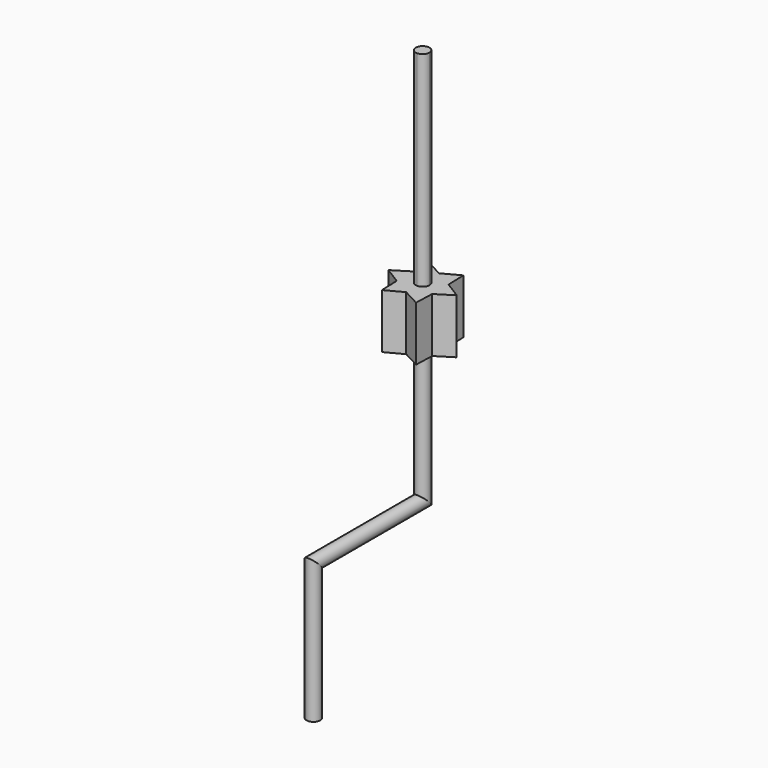
from build123d import *

# Parameters (mm, degrees)
F0_R     = 0.635
F4_DEPTH = 5.08
F6_DEPTH = 19.05


with BuildPart() as f2:
    # F2: sweep along a path in F1
    with BuildLine(Plane.YZ) as f2_path:
        Line((0, 0), (0, 12.7))
        Line((0, 12.7), (12.7, 12.7))
        Line((12.7, 12.7), (12.7, 25.4))
    # F0 (on Top) → F2 (sweep)
    with BuildSketch(Plane.XY):
        Circle(F0_R)
    sweep(path=f2_path.line, transition=Transition.RIGHT)

    # F3 (on face) → F4 (join)
    with BuildSketch(Plane.XY.offset(25.4)):
        with BuildLine():
            ThreePointArc((-0.9525, 14.3497783942), (-1.3470384182, 14.0470384182), (-1.6497783942, 13.6525))
            Line((-1.6497783942, 13.6525), (-0.5499261314, 13.0175))
            ThreePointArc((-0.5499261314, 13.0175), (-0.4490128061, 13.1490128061), (-0.3175, 13.2499261314))
            Line((-0.3175, 13.2499261314), (-0.9525, 14.3497783942))
        make_face()
        with BuildLine():
            ThreePointArc((-0.3175, 13.2499261314), (-0.1643500936, 13.3133628997), (0, 13.335))
            Line((0, 13.335), (0, 14.605))
            ThreePointArc((0, 14.605), (-0.4930502809, 14.5400886991), (-0.9525, 14.3497783942))
            Line((-0.9525, 14.3497783942), (-0.3175, 13.2499261314))
        make_face()
        with BuildLine():
            Line((0, 14.605), (-1.5875, 15.449630657))
            Line((-1.5875, 15.449630657), (-0.9525, 14.3497783942))
            ThreePointArc((-0.9525, 14.3497783942), (-0.4930502809, 14.5400886991), (0, 14.605))
        make_face()
        with BuildLine():
            Line((-0.9525, 14.3497783942), (-1.5875, 15.449630657))
            Line((-1.5875, 15.449630657), (-1.6497783942, 13.6525))
            ThreePointArc((-1.6497783942, 13.6525), (-1.3470384182, 14.0470384182), (-0.9525, 14.3497783942))
        make_face()
        with BuildLine():
            Line((-0.3175, 13.2499261314), (0, 12.7))
            Line((0, 12.7), (0, 13.335))
            ThreePointArc((0, 13.335), (-0.1643500936, 13.3133628997), (-0.3175, 13.2499261314))
        make_face()
        with BuildLine():
            Line((-0.5499261314, 12.3825), (0, 12.7))
            Line((0, 12.7), (-0.635, 12.7))
            ThreePointArc((-0.635, 12.7), (-0.6133628997, 12.5356499064), (-0.5499261314, 12.3825))
        make_face()
        with BuildLine():
            Line((-0.635, 12.7), (0, 12.7))
            Line((0, 12.7), (-0.5499261314, 13.0175))
            ThreePointArc((-0.5499261314, 13.0175), (-0.6133628997, 12.8643500936), (-0.635, 12.7))
        make_face()
        with BuildLine():
            Line((-0.5499261314, 13.0175), (0, 12.7))
            Line((0, 12.7), (-0.3175, 13.2499261314))
            ThreePointArc((-0.3175, 13.2499261314), (-0.4490128061, 13.1490128061), (-0.5499261314, 13.0175))
        make_face()
        with BuildLine():
            Line((-0.3175, 12.1500738686), (0, 12.7))
            Line((0, 12.7), (-0.5499261314, 12.3825))
            ThreePointArc((-0.5499261314, 12.3825), (-0.4490128061, 12.2509871939), (-0.3175, 12.1500738686))
        make_face()
        with BuildLine():
            Line((0, 12.7), (0, 12.065))
            ThreePointArc((0, 12.065), (0.1643500936, 12.0866371003), (0.3175, 12.1500738686))
            Line((0.3175, 12.1500738686), (0, 12.7))
        make_face()
        with BuildLine():
            Line((0.5499261314, 12.3825), (0, 12.7))
            Line((0, 12.7), (0.3175, 12.1500738686))
            ThreePointArc((0.3175, 12.1500738686), (0.4490128061, 12.2509871939), (0.5499261314, 12.3825))
        make_face()
        with BuildLine():
            Line((0.635, 12.7), (0, 12.7))
            Line((0, 12.7), (0.5499261314, 12.3825))
            ThreePointArc((0.5499261314, 12.3825), (0.6133628997, 12.5356499064), (0.635, 12.7))
        make_face()
        with BuildLine():
            Line((0.5499261314, 13.0175), (0, 12.7))
            Line((0, 12.7), (0.635, 12.7))
            ThreePointArc((0.635, 12.7), (0.6133628997, 12.8643500936), (0.5499261314, 13.0175))
        make_face()
        with BuildLine():
            Line((0.3175, 13.2499261314), (0, 12.7))
            Line((0, 12.7), (0.5499261314, 13.0175))
            ThreePointArc((0.5499261314, 13.0175), (0.4490128061, 13.1490128061), (0.3175, 13.2499261314))
        make_face()
        with BuildLine():
            Line((0, 13.335), (0, 12.7))
            Line((0, 12.7), (0.3175, 13.2499261314))
            ThreePointArc((0.3175, 13.2499261314), (0.1643500936, 13.3133628997), (0, 13.335))
        make_face()
        with BuildLine():
            ThreePointArc((-0.3175, 12.1500738686), (-0.1643500936, 12.0866371003), (0, 12.065))
            Line((0, 12.065), (0, 12.7))
            Line((0, 12.7), (-0.3175, 12.1500738686))
        make_face()
        with BuildLine():
            ThreePointArc((0, 13.335), (0.1643500936, 13.3133628997), (0.3175, 13.2499261314))
            Line((0.3175, 13.2499261314), (0.9525, 14.3497783942))
            ThreePointArc((0.9525, 14.3497783942), (0.4930502809, 14.5400886991), (0, 14.605))
            Line((0, 14.605), (0, 13.335))
        make_face()
        with BuildLine():
            Line((0.5499261314, 13.0175), (1.6497783942, 13.6525))
            ThreePointArc((1.6497783942, 13.6525), (1.3470384182, 14.0470384182), (0.9525, 14.3497783942))
            Line((0.9525, 14.3497783942), (0.3175, 13.2499261314))
            ThreePointArc((0.3175, 13.2499261314), (0.4490128061, 13.1490128061), (0.5499261314, 13.0175))
        make_face()
        with BuildLine():
            Line((0.9525, 14.3497783942), (1.5875, 15.449630657))
            Line((1.5875, 15.449630657), (0, 14.605))
            ThreePointArc((0, 14.605), (0.4930502809, 14.5400886991), (0.9525, 14.3497783942))
        make_face()
        with BuildLine():
            Line((1.6497783942, 13.6525), (1.5875, 15.449630657))
            Line((1.5875, 15.449630657), (0.9525, 14.3497783942))
            ThreePointArc((0.9525, 14.3497783942), (1.3470384182, 14.0470384182), (1.6497783942, 13.6525))
        make_face()
        with BuildLine():
            Line((0.635, 12.7), (1.905, 12.7))
            ThreePointArc((1.905, 12.7), (1.8400886991, 13.1930502809), (1.6497783942, 13.6525))
            Line((1.6497783942, 13.6525), (0.5499261314, 13.0175))
            ThreePointArc((0.5499261314, 13.0175), (0.6133628997, 12.8643500936), (0.635, 12.7))
        make_face()
        with BuildLine():
            Line((0.5499261314, 12.3825), (1.6497783942, 11.7475))
            ThreePointArc((1.6497783942, 11.7475), (1.8400886991, 12.2069497191), (1.905, 12.7))
            Line((1.905, 12.7), (0.635, 12.7))
            ThreePointArc((0.635, 12.7), (0.6133628997, 12.5356499064), (0.5499261314, 12.3825))
        make_face()
        with BuildLine():
            Line((0.3175, 12.1500738686), (0.9525, 11.0502216058))
            ThreePointArc((0.9525, 11.0502216058), (1.3470384182, 11.3529615818), (1.6497783942, 11.7475))
            Line((1.6497783942, 11.7475), (0.5499261314, 12.3825))
            ThreePointArc((0.5499261314, 12.3825), (0.4490128061, 12.2509871939), (0.3175, 12.1500738686))
        make_face()
        with BuildLine():
            Line((0, 12.065), (0, 10.795))
            ThreePointArc((0, 10.795), (0.4930502809, 10.8599113009), (0.9525, 11.0502216058))
            Line((0.9525, 11.0502216058), (0.3175, 12.1500738686))
            ThreePointArc((0.3175, 12.1500738686), (0.1643500936, 12.0866371003), (0, 12.065))
        make_face()
        with BuildLine():
            ThreePointArc((-0.9525, 11.0502216058), (-0.4930502809, 10.8599113009), (0, 10.795))
            Line((0, 10.795), (0, 12.065))
            ThreePointArc((0, 12.065), (-0.1643500936, 12.0866371003), (-0.3175, 12.1500738686))
            Line((-0.3175, 12.1500738686), (-0.9525, 11.0502216058))
        make_face()
        with BuildLine():
            ThreePointArc((-1.6497783942, 11.7475), (-1.3470384182, 11.3529615818), (-0.9525, 11.0502216058))
            Line((-0.9525, 11.0502216058), (-0.3175, 12.1500738686))
            ThreePointArc((-0.3175, 12.1500738686), (-0.4490128061, 12.2509871939), (-0.5499261314, 12.3825))
            Line((-0.5499261314, 12.3825), (-1.6497783942, 11.7475))
        make_face()
        with BuildLine():
            ThreePointArc((-1.905, 12.7), (-1.8400886991, 12.2069497191), (-1.6497783942, 11.7475))
            Line((-1.6497783942, 11.7475), (-0.5499261314, 12.3825))
            ThreePointArc((-0.5499261314, 12.3825), (-0.6133628997, 12.5356499064), (-0.635, 12.7))
            Line((-0.635, 12.7), (-1.905, 12.7))
        make_face()
        with BuildLine():
            ThreePointArc((-1.6497783942, 13.6525), (-1.8400886991, 13.1930502809), (-1.905, 12.7))
            Line((-1.905, 12.7), (-0.635, 12.7))
            ThreePointArc((-0.635, 12.7), (-0.6133628997, 12.8643500936), (-0.5499261314, 13.0175))
            Line((-0.5499261314, 13.0175), (-1.6497783942, 13.6525))
        make_face()
        with BuildLine():
            Line((-1.6497783942, 13.6525), (-3.175, 12.7))
            Line((-3.175, 12.7), (-1.905, 12.7))
            ThreePointArc((-1.905, 12.7), (-1.8400886991, 13.1930502809), (-1.6497783942, 13.6525))
        make_face()
        with BuildLine():
            Line((-1.905, 12.7), (-3.175, 12.7))
            Line((-3.175, 12.7), (-1.6497783942, 11.7475))
            ThreePointArc((-1.6497783942, 11.7475), (-1.8400886991, 12.2069497191), (-1.905, 12.7))
        make_face()
        with BuildLine():
            Line((-1.6497783942, 11.7475), (-1.5875, 9.950369343))
            Line((-1.5875, 9.950369343), (-0.9525, 11.0502216058))
            ThreePointArc((-0.9525, 11.0502216058), (-1.3470384182, 11.3529615818), (-1.6497783942, 11.7475))
        make_face()
        with BuildLine():
            Line((-1.5875, 9.950369343), (0, 10.795))
            ThreePointArc((0, 10.795), (-0.4930502809, 10.8599113009), (-0.9525, 11.0502216058))
            Line((-0.9525, 11.0502216058), (-1.5875, 9.950369343))
        make_face()
        with BuildLine():
            ThreePointArc((0.9525, 11.0502216058), (0.4930502809, 10.8599113009), (0, 10.795))
            Line((0, 10.795), (1.5875, 9.950369343))
            Line((1.5875, 9.950369343), (0.9525, 11.0502216058))
        make_face()
        with BuildLine():
            Line((0.9525, 11.0502216058), (1.5875, 9.950369343))
            Line((1.5875, 9.950369343), (1.6497783942, 11.7475))
            ThreePointArc((1.6497783942, 11.7475), (1.3470384182, 11.3529615818), (0.9525, 11.0502216058))
        make_face()
        with BuildLine():
            Line((1.6497783942, 11.7475), (3.175, 12.7))
            Line((3.175, 12.7), (1.905, 12.7))
            ThreePointArc((1.905, 12.7), (1.8400886991, 12.2069497191), (1.6497783942, 11.7475))
        make_face()
        with BuildLine():
            Line((1.905, 12.7), (3.175, 12.7))
            Line((3.175, 12.7), (1.6497783942, 13.6525))
            ThreePointArc((1.6497783942, 13.6525), (1.8400886991, 13.1930502809), (1.905, 12.7))
        make_face()
    extrude(amount=F4_DEPTH)

    # F5 (on face) → F6 (join)
    with BuildSketch(Plane.XY.offset(30.48)):
        with BuildLine():
            ThreePointArc((0.635, 12.7), (-0.4490128061, 13.1490128061), (0, 12.065))
            Line((0, 12.065), (0, 12.7))
            Line((0, 12.7), (0.635, 12.7))
        make_face()
        with BuildLine():
            Line((0, 12.7), (0, 12.065))
            ThreePointArc((0, 12.065), (0.4490128061, 12.2509871939), (0.635, 12.7))
            Line((0.635, 12.7), (0, 12.7))
        make_face()
    extrude(amount=F6_DEPTH)


solid = f2.part
